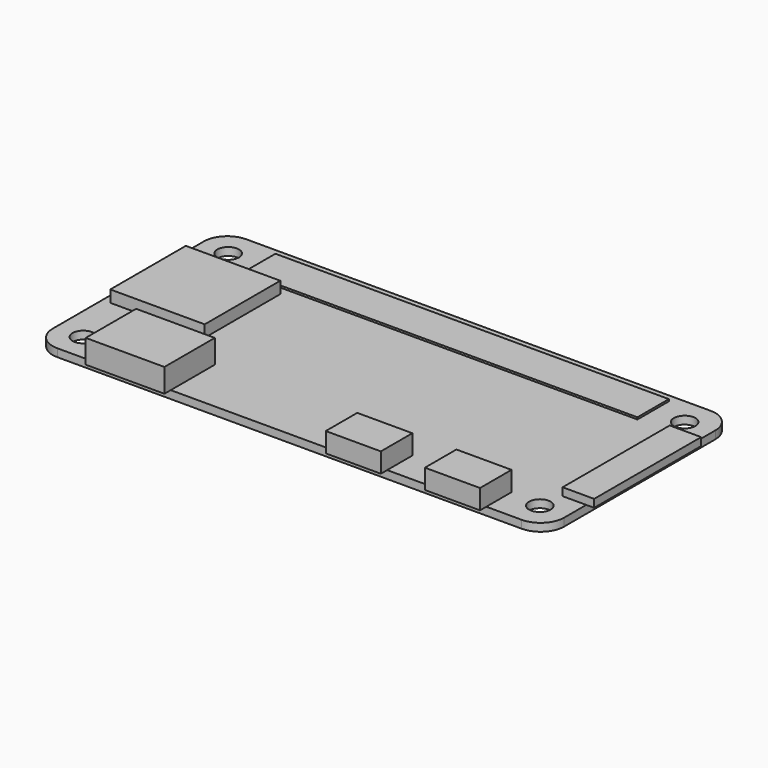
from build123d import *

# Parameters (mm, degrees)
F0_R     = 1.375
F0_W     = 12
F0_H     = 12
F0_W_2   = 50
F0_H_2   = 5
F0_W_3   = 10
F0_H_3   = 7
F0_W_4   = 3
F0_H_4   = 17
F0_W_5   = 7
F0_H_5   = 4
F1_DEPTH = 1
F2_DEPTH = 1.5
F0_H_6   = 1
F3_DEPTH = 3
F4_DEPTH = 2.5
F0_W_6   = 1
F5_DEPTH = 1
F6_DEPTH = 0.25


with BuildPart() as f1:
    # F0 (on Top) → F1 (new body)
    with BuildSketch(Plane.XY):
        with BuildLine():
            Line((25, -15), (29.5, -15))
            ThreePointArc((29.5, -15), (31.6213203436, -14.1213203436), (32.5, -12))
            Line((32.5, -12), (32.5, -8.5))
            Line((32.5, -8.5), (29.5, -8.5))
            Line((29.5, -8.5), (29.5, 8.5))
            Line((29.5, 8.5), (32.5, 8.5))
            Line((32.5, 8.5), (32.5, 12))
            ThreePointArc((32.5, 12), (31.6213203436, 14.1213203436), (29.5, 15))
            Line((29.5, 15), (-29.5, 15))
            ThreePointArc((-29.5, 15), (-31.6213203436, 14.1213203436), (-32.5, 12))
            Line((-32.5, 12), (-32.5, -12))
            ThreePointArc((-32.5, -12), (-31.6213203436, -14.1213203436), (-29.5, -15))
            Line((-29.5, -15), (-25.1, -15))
            Line((-25.1, -15), (-25.1, -8))
            Line((-25.1, -8), (-15.1, -8))
            Line((-15.1, -8), (-15.1, -15))
            Line((-15.1, -15), (5.4, -15))
            Line((5.4, -15), (5.4, -11))
            Line((5.4, -11), (12.4, -11))
            Line((12.4, -11), (12.4, -15))
            Line((12.4, -15), (18, -15))
            Line((18, -15), (18, -11))
            Line((18, -11), (25, -11))
            Line((25, -11), (25, -15))
        make_face()
        with Locations((-29, -11.5)):
            Circle(F0_R, mode=Mode.SUBTRACT)
        with Locations((29, -11.5)):
            Circle(F0_R, mode=Mode.SUBTRACT)
        with Locations((-25.5, 1.9)):
            Rectangle(F0_W, F0_H, mode=Mode.SUBTRACT)
        with Locations((-29, 11.5)):
            Circle(F0_R, mode=Mode.SUBTRACT)
        with Locations((0, 11.5)):
            Rectangle(F0_W_2, F0_H_2, mode=Mode.SUBTRACT)
        with Locations((29, 11.5)):
            Circle(F0_R, mode=Mode.SUBTRACT)
        with Locations((0, 11.5)):
            Rectangle(F0_W_2, F0_H_2)
        with Locations((-25.5, 1.9)):
            Rectangle(F0_W, F0_H)
        with Locations((-20.1, -11.5)):
            Rectangle(F0_W_3, F0_H_3)
        with Locations((31, 0)):
            Rectangle(F0_W_4, F0_H_4)
        with Locations((8.9, -13)):
            Rectangle(F0_W_5, F0_H_5)
        with Locations((21.5, -13)):
            Rectangle(F0_W_5, F0_H_5)
    extrude(amount=-F1_DEPTH)


with BuildPart() as f2:
    # F0 (on Top) → F2 (new body)
    with BuildSketch(Plane.XY):
        with Locations((-25.5, 1.9)):
            Rectangle(F0_W, F0_H)
    extrude(amount=F2_DEPTH)


with BuildPart() as f3:
    # F0 (on Top) → F3 (new body)
    with BuildSketch(Plane.XY):
        with Locations((-20.1, -11.5)):
            Rectangle(F0_W_3, F0_H_3)
        with Locations((-20.1, -15.5)):
            Rectangle(F0_W_3, F0_H_6)
    extrude(amount=F3_DEPTH)


with BuildPart() as f4:
    # F0 (on Top) → F4 (new body)
    with BuildSketch(Plane.XY):
        with Locations((8.9, -13)):
            Rectangle(F0_W_5, F0_H_5)
        with Locations((8.9, -15.5)):
            Rectangle(F0_W_5, F0_H_6)
    extrude(amount=F4_DEPTH)


with BuildPart() as f4b:
    # F0 (on Top) → F4, piece 2 (new body)
    with BuildSketch(Plane.XY):
        with Locations((21.5, -13)):
            Rectangle(F0_W_5, F0_H_5)
        with Locations((21.5, -15.5)):
            Rectangle(F0_W_5, F0_H_6)
    extrude(amount=F4_DEPTH)


with BuildPart() as f5:
    # F0 (on Top) → F5 (new body)
    with BuildSketch(Plane.XY):
        with Locations((33, 0)):
            Rectangle(F0_W_6, F0_H_4)
        with Locations((31, 0)):
            Rectangle(F0_W_4, F0_H_4)
    extrude(amount=F5_DEPTH)


with BuildPart() as f6:
    # F0 (on Top) → F6 (new body)
    with BuildSketch(Plane.XY):
        with Locations((0, 11.5)):
            Rectangle(F0_W_2, F0_H_2)
    extrude(amount=F6_DEPTH)


solid = Compound([f1.part, f2.part, f3.part, f4.part, f4b.part, f5.part, f6.part])
